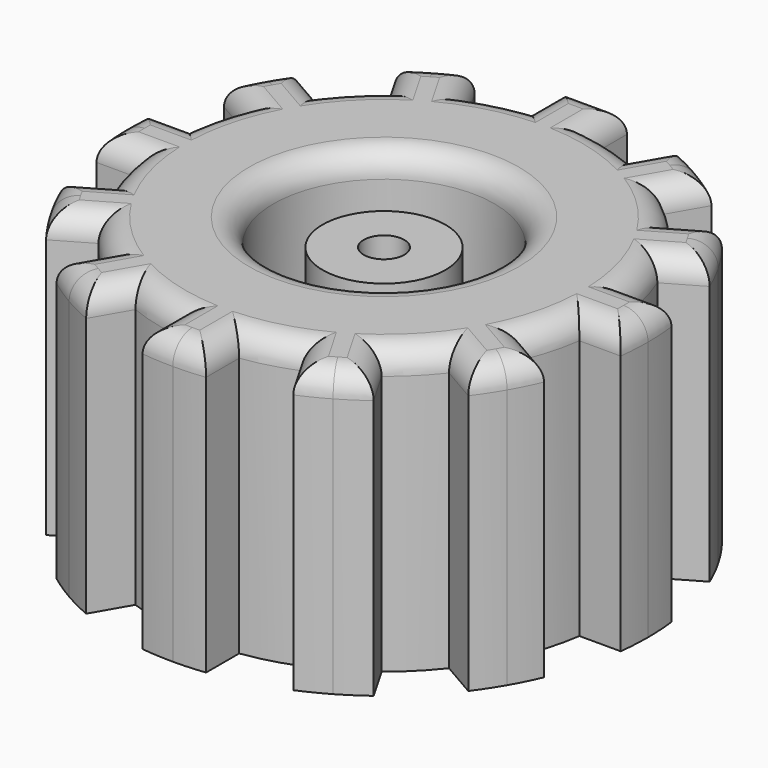
from build123d import *

# Parameters (mm, degrees)
F0_R     = 3.4572438996
F1_DEPTH = 8.89
F0_R_2   = 1.9207072448
F2_DEPTH = 3.2004
F0_R_3   = 0.635
F3_DEPTH = 8.0518
F4_R     = 0.762


with BuildPart() as f1:
    # F0 (on Top) → F1 (new body)
    with BuildSketch(Plane.XY):
        with BuildLine():
            ThreePointArc((0.9927277863, 6.9026027274), (0, 6.9736240844), (-0.9927277863, 6.9026027274))
            ThreePointArc((-0.9927277863, 6.9026027274), (-1.8049067264, 6.7360036059), (-2.5915738817, 6.4741932073))
            ThreePointArc((-2.5915738817, 6.4741932073), (-3.4868120422, 6.0393356135), (-4.3110288457, 5.481465421))
            ThreePointArc((-4.3110288457, 5.481465421), (-4.9310968795, 4.9310968795), (-5.481465421, 4.3110288457))
            ThreePointArc((-5.481465421, 4.3110288457), (-6.0393356135, 3.4868120422), (-6.4741932073, 2.5915738817))
            ThreePointArc((-6.4741932073, 2.5915738817), (-6.7360036059, 1.8049067264), (-6.9026027274, 0.9927277863))
            ThreePointArc((-6.9026027274, 0.9927277863), (-6.9736240844, 0), (-6.9026027274, -0.9927277863))
            ThreePointArc((-6.9026027274, -0.9927277863), (-6.7360036059, -1.8049067264), (-6.4741932073, -2.5915738817))
            ThreePointArc((-6.4741932073, -2.5915738817), (-6.0393356135, -3.4868120422), (-5.481465421, -4.3110288457))
            ThreePointArc((-5.481465421, -4.3110288457), (-4.9310968795, -4.9310968795), (-4.3110288457, -5.481465421))
            ThreePointArc((-4.3110288457, -5.481465421), (-3.4868120422, -6.0393356135), (-2.5915738817, -6.4741932073))
            ThreePointArc((-2.5915738817, -6.4741932073), (-1.8049067264, -6.7360036059), (-0.9927277863, -6.9026027274))
            ThreePointArc((-0.9927277863, -6.9026027274), (0, -6.9736240844), (0.9927277863, -6.9026027274))
            ThreePointArc((0.9927277863, -6.9026027274), (1.8049067264, -6.7360036059), (2.5915738817, -6.4741932073))
            ThreePointArc((2.5915738817, -6.4741932073), (3.4868120422, -6.0393356135), (4.3110288457, -5.481465421))
            ThreePointArc((4.3110288457, -5.481465421), (4.9310968795, -4.9310968795), (5.481465421, -4.3110288457))
            ThreePointArc((5.481465421, -4.3110288457), (6.0393356135, -3.4868120422), (6.4741932073, -2.5915738817))
            ThreePointArc((6.4741932073, -2.5915738817), (6.7360036059, -1.8049067264), (6.9026027274, -0.9927277863))
            ThreePointArc((6.9026027274, -0.9927277863), (6.9558460842, -0.4976325178), (6.9736240844, 0))
            ThreePointArc((6.9736240844, 0), (6.9558460842, 0.4976325178), (6.9026027274, 0.9927277863))
            ThreePointArc((6.9026027274, 0.9927277863), (6.7360036059, 1.8049067264), (6.4741932073, 2.5915738817))
            ThreePointArc((6.4741932073, 2.5915738817), (6.0393356135, 3.4868120422), (5.481465421, 4.3110288457))
            ThreePointArc((5.481465421, 4.3110288457), (4.9310968795, 4.9310968795), (4.3110288457, 5.481465421))
            ThreePointArc((4.3110288457, 5.481465421), (3.4868120422, 6.0393356135), (2.5915738817, 6.4741932073))
            ThreePointArc((2.5915738817, 6.4741932073), (1.8049067264, 6.7360036059), (0.9927277863, 6.9026027274))
        make_face()
        Circle(F0_R, mode=Mode.SUBTRACT)
        with BuildLine():
            Line((-2.5915738817, 6.4741932073), (-3.2378180193, 7.5935208878))
            ThreePointArc((-3.2378180193, 7.5935208878), (-3.6893587965, 7.3846906957), (-4.1275000178, 7.1490396979))
            ThreePointArc((-4.1275000178, 7.1490396979), (-4.5506503605, 6.8874237779), (-4.9572729834, 6.6007931015))
            Line((-4.9572729834, 6.6007931015), (-4.3110288457, 5.481465421))
            ThreePointArc((-4.3110288457, 5.481465421), (-3.4868120422, 6.0393356135), (-2.5915738817, 6.4741932073))
        make_face()
        with BuildLine():
            Line((-5.481465421, 4.3110288457), (-6.6007931015, 4.9572729834))
            ThreePointArc((-6.6007931015, 4.9572729834), (-6.8874237862, 4.550650348), (-7.1490397129, 4.1274999919))
            ThreePointArc((-7.1490397129, 4.1274999919), (-7.3846907024, 3.6893587831), (-7.5935208878, 3.2378180193))
            Line((-7.5935208878, 3.2378180193), (-6.4741932073, 2.5915738817))
            ThreePointArc((-6.4741932073, 2.5915738817), (-6.0393356135, 3.4868120422), (-5.481465421, 4.3110288457))
        make_face()
        with BuildLine():
            ThreePointArc((-6.9026027274, -0.9927277863), (-6.9736240844, 0), (-6.9026027274, 0.9927277863))
            Line((-6.9026027274, 0.9927277863), (-8.1950910027, 0.9927277863))
            ThreePointArc((-8.1950910027, 0.9927277863), (-8.2400091392, 0.4972669167), (-8.255, 0))
            ThreePointArc((-8.255, 0), (-8.2400091392, -0.4972669167), (-8.1950910027, -0.9927277863))
            Line((-8.1950910027, -0.9927277863), (-6.9026027274, -0.9927277863))
        make_face()
        with BuildLine():
            ThreePointArc((-5.481465421, -4.3110288457), (-6.0393356135, -3.4868120422), (-6.4741932073, -2.5915738817))
            Line((-6.4741932073, -2.5915738817), (-7.5935208878, -3.2378180193))
            ThreePointArc((-7.5935208878, -3.2378180193), (-7.3846907065, -3.6893587748), (-7.1490397222, -4.1274999759))
            ThreePointArc((-7.1490397222, -4.1274999759), (-6.8874237913, -4.5506503403), (-6.6007931015, -4.9572729834))
            Line((-6.6007931015, -4.9572729834), (-5.481465421, -4.3110288457))
        make_face()
        with BuildLine():
            ThreePointArc((-2.5915738817, -6.4741932073), (-3.4868120422, -6.0393356135), (-4.3110288457, -5.481465421))
            Line((-4.3110288457, -5.481465421), (-4.9572729834, -6.6007931015))
            ThreePointArc((-4.9572729834, -6.6007931015), (-4.550650373, -6.8874237697), (-4.1275000438, -7.149039683))
            ThreePointArc((-4.1275000438, -7.149039683), (-3.6893588099, -7.384690689), (-3.2378180193, -7.5935208878))
            Line((-3.2378180193, -7.5935208878), (-2.5915738817, -6.4741932073))
        make_face()
        with BuildLine():
            ThreePointArc((0.9927277863, -6.9026027274), (0, -6.9736240844), (-0.9927277863, -6.9026027274))
            Line((-0.9927277863, -6.9026027274), (-0.9927277863, -8.1950910027))
            ThreePointArc((-0.9927277863, -8.1950910027), (-0.4972669167, -8.2400091392), (0, -8.255))
            ThreePointArc((0, -8.255), (0.4972669167, -8.2400091392), (0.9927277863, -8.1950910027))
            Line((0.9927277863, -8.1950910027), (0.9927277863, -6.9026027274))
        make_face()
        with BuildLine():
            Line((4.9572729834, -6.6007931015), (4.3110288457, -5.481465421))
            ThreePointArc((4.3110288457, -5.481465421), (3.4868120422, -6.0393356135), (2.5915738817, -6.4741932073))
            Line((2.5915738817, -6.4741932073), (3.2378180193, -7.5935208878))
            ThreePointArc((3.2378180193, -7.5935208878), (3.6893586912, -7.3846907483), (4.127499814, -7.1490398156))
            ThreePointArc((4.127499814, -7.1490398156), (4.5506502623, -6.8874238428), (4.9572729834, -6.6007931015))
        make_face()
        with BuildLine():
            Line((7.5935208878, -3.2378180193), (6.4741932073, -2.5915738817))
            ThreePointArc((6.4741932073, -2.5915738817), (6.0393356135, -3.4868120422), (5.481465421, -4.3110288457))
            Line((5.481465421, -4.3110288457), (6.6007931015, -4.9572729834))
            ThreePointArc((6.6007931015, -4.9572729834), (6.8874238695, -4.5506502218), (7.1490398641, -4.12749973))
            ThreePointArc((7.1490398641, -4.12749973), (7.3846907699, -3.6893586478), (7.5935208878, -3.2378180193))
        make_face()
        with BuildLine():
            Line((8.1950910027, 0.9927277863), (6.9026027274, 0.9927277863))
            ThreePointArc((6.9026027274, 0.9927277863), (6.9558460842, 0.4976325178), (6.9736240844, 0))
            ThreePointArc((6.9736240844, 0), (6.9558460842, -0.4976325178), (6.9026027274, -0.9927277863))
            Line((6.9026027274, -0.9927277863), (8.1950910027, -0.9927277863))
            ThreePointArc((8.1950910027, -0.9927277863), (8.2400091392, -0.4972669167), (8.255, 0))
            ThreePointArc((8.255, 0), (8.2400091392, 0.4972669167), (8.1950910027, 0.9927277863))
        make_face()
        with BuildLine():
            Line((6.6007931015, 4.9572729834), (5.481465421, 4.3110288457))
            ThreePointArc((5.481465421, 4.3110288457), (6.0393356135, 3.4868120422), (6.4741932073, 2.5915738817))
            Line((6.4741932073, 2.5915738817), (7.5935208878, 3.2378180193))
            ThreePointArc((7.5935208878, 3.2378180193), (7.3846907808, 3.6893586261), (7.1490398884, 4.127499688))
            ThreePointArc((7.1490398884, 4.127499688), (6.8874238829, 4.5506502016), (6.6007931015, 4.9572729834))
        make_face()
        with BuildLine():
            Line((3.2378180193, 7.5935208878), (2.5915738817, 6.4741932073))
            ThreePointArc((2.5915738817, 6.4741932073), (3.4868120422, 6.0393356135), (4.3110288457, 5.481465421))
            Line((4.3110288457, 5.481465421), (4.9572729834, 6.6007931015))
            ThreePointArc((4.9572729834, 6.6007931015), (4.5506502141, 6.8874238746), (4.127499714, 7.1490398734))
            ThreePointArc((4.127499714, 7.1490398734), (3.6893586395, 7.3846907741), (3.2378180193, 7.5935208878))
        make_face()
        with BuildLine():
            Line((-0.9927277863, 8.255), (-0.9927277863, 8.1950910027))
            Line((-0.9927277863, 8.1950910027), (-0.9927277863, 6.9026027274))
            ThreePointArc((-0.9927277863, 6.9026027274), (0, 6.9736240844), (0.9927277863, 6.9026027274))
            Line((0.9927277863, 6.9026027274), (0.9927277863, 8.1950910027))
            Line((0.9927277863, 8.1950910027), (0.9927277863, 8.255))
            Line((0.9927277863, 8.255), (-0.9927277863, 8.255))
        make_face()
    extrude(amount=F1_DEPTH)

    # F0 (on Top) → F2 (join)
    with BuildSketch(Plane.XY):
        Circle(F0_R)
        Circle(F0_R_2, mode=Mode.SUBTRACT)
    extrude(amount=F2_DEPTH)

    # F0 (on Top) → F3 (join)
    with BuildSketch(Plane.XY):
        Circle(F0_R_2)
        Circle(F0_R_3, mode=Mode.SUBTRACT)
    extrude(amount=F3_DEPTH)

    # F4
    f4_edges = [f1.edges().sort_by_distance(p)[0] for p in [
        (-2.914696, 7.033857, 8.89),
        (-4.1275, 7.14904, 8.89),
        (-4.634151, 6.041129, 8.89),
        (-4.931097, 4.931097, 8.89),
        (-6.041129, 4.634151, 8.89),
        (-7.14904, 4.1275, 8.89),
        (-7.033857, 2.914696, 8.89),
        (-6.736004, 1.804907, 8.89),
        (-7.548847, 0.992728, 8.89),
        (-8.255, 0, 8.89),
        (-7.548847, -0.992728, 8.89),
        (-6.736004, -1.804907, 8.89),
        (-7.033857, -2.914696, 8.89),
        (-7.14904, -4.1275, 8.89),
        (-6.041129, -4.634151, 8.89),
        (-4.931097, -4.931097, 8.89),
        (-4.634151, -6.041129, 8.89),
        (-4.1275, -7.14904, 8.89),
        (-2.914696, -7.033857, 8.89),
        (-1.804907, -6.736004, 8.89),
        (-0.992728, -7.548847, 8.89),
        (0, -8.255, 8.89),
        (0.992728, -7.548847, 8.89),
        (1.804907, -6.736004, 8.89),
        (2.914696, -7.033857, 8.89),
        (4.1275, -7.14904, 8.89),
        (4.634151, -6.041129, 8.89),
        (4.931097, -4.931097, 8.89),
        (6.041129, -4.634151, 8.89),
        (7.14904, -4.1275, 8.89),
        (7.033857, -2.914696, 8.89),
        (6.736004, -1.804907, 8.89),
        (7.548847, -0.992728, 8.89),
        (8.255, 0, 8.89),
        (7.548847, 0.992728, 8.89),
        (6.736004, 1.804907, 8.89),
        (7.033857, 2.914696, 8.89),
        (7.14904, 4.1275, 8.89),
        (6.041129, 4.634151, 8.89),
        (4.931097, 4.931097, 8.89),
        (4.634151, 6.041129, 8.89),
        (4.1275, 7.14904, 8.89),
        (2.914696, 7.033857, 8.89),
        (1.804907, 6.736004, 8.89),
        (0.992728, 7.578801, 8.89),
        (0, 8.255, 8.89),
        (-0.992728, 7.578801, 8.89),
        (-1.804907, 6.736004, 8.89),
        (-3.457244, 0, 8.89),
    ]]
    fillet(f4_edges, radius=F4_R)


solid = f1.part
